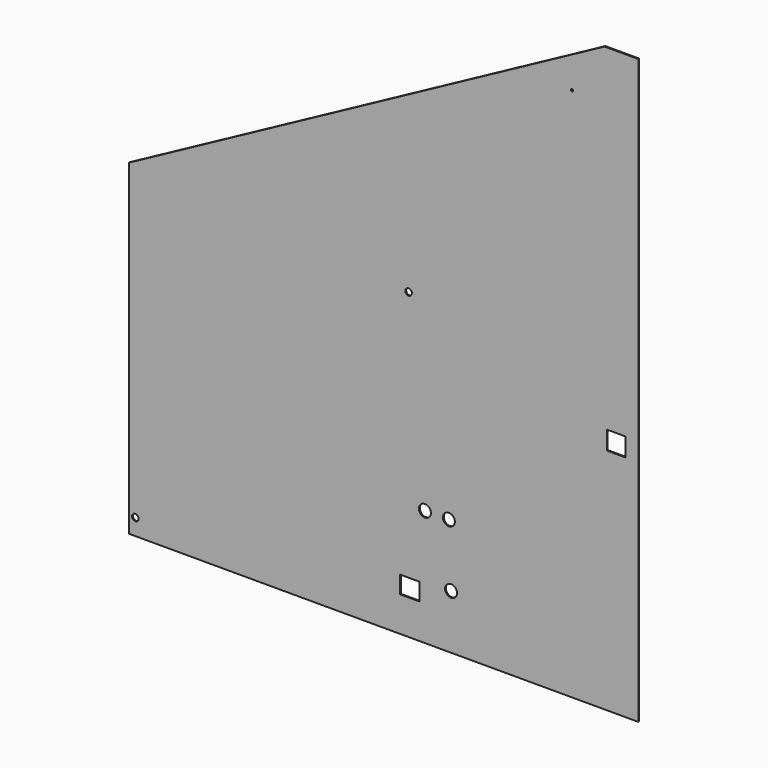
from build123d import *

# Parameters (mm, degrees)
F0_R     = 15
F0_W     = 90
F0_H     = 80
F0_R_2   = 27.5
F0_W_2   = 85
F0_H_2   = 85
F0_R_3   = 5
F1_DEPTH = 5


with BuildPart() as f1:
    # F0 (on Front) → F1 (new body)
    with BuildSketch(Plane.XZ):
        Polygon((0, 1500), (0, 0), (2340, 0), (2340, 2680), (2185, 2680), align=None)
        with Locations((30, 75)):
            Circle(F0_R, mode=Mode.SUBTRACT)
        with Locations((1290, 200)):
            Rectangle(F0_W, F0_H, mode=Mode.SUBTRACT)
        with Locations((1480, 250)):
            Circle(F0_R_2, mode=Mode.SUBTRACT)
        with Locations((1360, 535)):
            Circle(F0_R_2, mode=Mode.SUBTRACT)
        with Locations((1470, 535)):
            Circle(F0_R_2, mode=Mode.SUBTRACT)
        with Locations((2237.5, 1092.5)):
            Rectangle(F0_W_2, F0_H_2, mode=Mode.SUBTRACT)
        with Locations((1285, 1395)):
            Circle(F0_R, mode=Mode.SUBTRACT)
        with Locations((2035, 2455)):
            Circle(F0_R_3, mode=Mode.SUBTRACT)
    extrude(amount=F1_DEPTH)


solid = f1.part
